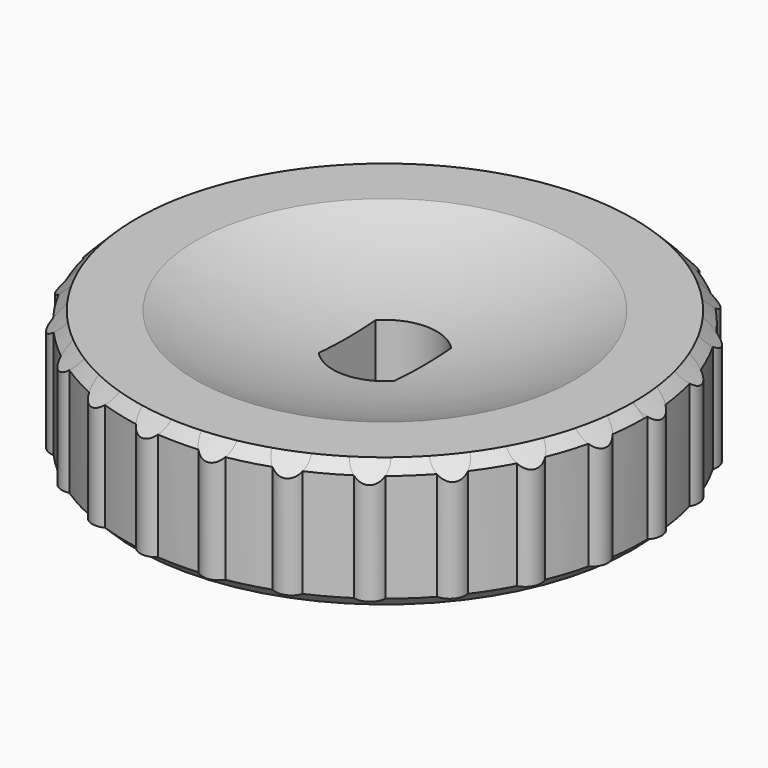
from build123d import *

# Parameters (mm, degrees)
F0_R     = 12
F1_DEPTH = 6
F4_R     = 7.5
F5_DEPTH = 1.5
F6_SIZE  = 0.5
F7_SIZE  = 0.5
F8_R     = 0.75
F9_DEPTH = 5.5


with BuildPart() as f1:
    # F0 (on Top) → F1 (new body)
    with BuildSketch(Plane.XY):
        Circle(F0_R)
        with BuildLine():
            Line((1.75, 1.642407), (1.75, -1.642407))
            ThreePointArc((1.75, -1.642407), (0, -2.4), (-1.75, -1.642407))
            Line((-1.75, -1.642407), (-1.75, 1.642407))
            ThreePointArc((-1.75, 1.642407), (0, 2.4), (1.75, 1.642407))
        make_face(mode=Mode.SUBTRACT)
    extrude(amount=-F1_DEPTH)

    # F2 (on Front) → F3 (revolve, cut)
    with BuildSketch(Plane.XZ):
        with BuildLine():
            ThreePointArc((-8.75, 0), (-4.46285, -1.317325), (0, -1.762272))
            Line((0, -1.762272), (0, 0))
            Line((0, 0), (-8.75, 0))
        make_face()
    revolve(axis=Axis((0, 0, -0.881136), (0, 0, 1)), mode=Mode.SUBTRACT)

    # F4 (on face) → F5 (join)
    with BuildSketch(Plane(origin=(0, 0, -6), x_dir=(1, 0, 0), z_dir=(0, 0, -1))):
        Circle(F4_R)
        with BuildLine():
            Line((-1.75, -1.642407), (-1.75, 1.642407))
            ThreePointArc((-1.75, 1.642407), (0, 2.4), (1.75, 1.642407))
            Line((1.75, 1.642407), (1.75, -1.642407))
            ThreePointArc((1.75, -1.642407), (0, -2.4), (-1.75, -1.642407))
        make_face(mode=Mode.SUBTRACT)
    extrude(amount=F5_DEPTH)

    # F6
    f6_edges = [f1.edges().sort_by_distance(p)[0] for p in [
        (-7.5, 0, -7.5),
        (-12, 0, -6),
    ]]
    chamfer(f6_edges, length=F6_SIZE)

    # F7
    f7_edges = [f1.edges().sort_by_distance(p)[0] for p in [
        (-12, 0, 0),
    ]]
    chamfer(f7_edges, length=F7_SIZE)

    # F8 (on face) → F9 (join)
    with BuildSketch(Plane.XY):
        with Locations((0, 11.5)):
            Circle(F8_R)
        with Locations((-2.859934, 11.138706)):
            Circle(F8_R)
        with Locations((-5.540167, 10.077527)):
            Circle(F8_R)
        with Locations((-7.872292, 8.383139)):
            Circle(F8_R)
        with Locations((-9.709771, 6.162008)):
            Circle(F8_R)
        with Locations((-10.93715, 3.553695)):
            Circle(F8_R)
        with Locations((-11.477307, 0.722091)):
            Circle(F8_R)
        with Locations((-11.296303, -2.154885)):
            Circle(F8_R)
        with Locations((-10.405511, -4.896462)):
            Circle(F8_R)
        with Locations((-8.860902, -7.330376)):
            Circle(F8_R)
        with Locations((-6.75953, -9.303695)):
            Circle(F8_R)
        with Locations((-4.233432, -10.69243)):
            Circle(F8_R)
        with Locations((-1.441332, -11.409319)):
            Circle(F8_R)
        with Locations((1.441332, -11.409319)):
            Circle(F8_R)
        with Locations((4.233432, -10.69243)):
            Circle(F8_R)
        with Locations((6.75953, -9.303695)):
            Circle(F8_R)
        with Locations((8.860902, -7.330376)):
            Circle(F8_R)
        with Locations((10.405511, -4.896462)):
            Circle(F8_R)
        with Locations((11.296303, -2.154885)):
            Circle(F8_R)
        with Locations((11.477307, 0.722091)):
            Circle(F8_R)
        with Locations((10.93715, 3.553695)):
            Circle(F8_R)
        with Locations((9.709771, 6.162008)):
            Circle(F8_R)
        with Locations((7.872292, 8.383139)):
            Circle(F8_R)
        with Locations((5.540167, 10.077527)):
            Circle(F8_R)
        with Locations((2.859934, 11.138706)):
            Circle(F8_R)
    extrude(amount=-F9_DEPTH)

    # F10 (on Front) → F11 (revolve, cut)
    with BuildSketch(Plane.XZ):
        Polygon((6.86, 4.64), (17, -5.5), (17, 4.64), align=None)
    revolve(axis=Axis((0, 0, -1.45385), (0, 0, -1)), mode=Mode.SUBTRACT)


solid = f1.part
